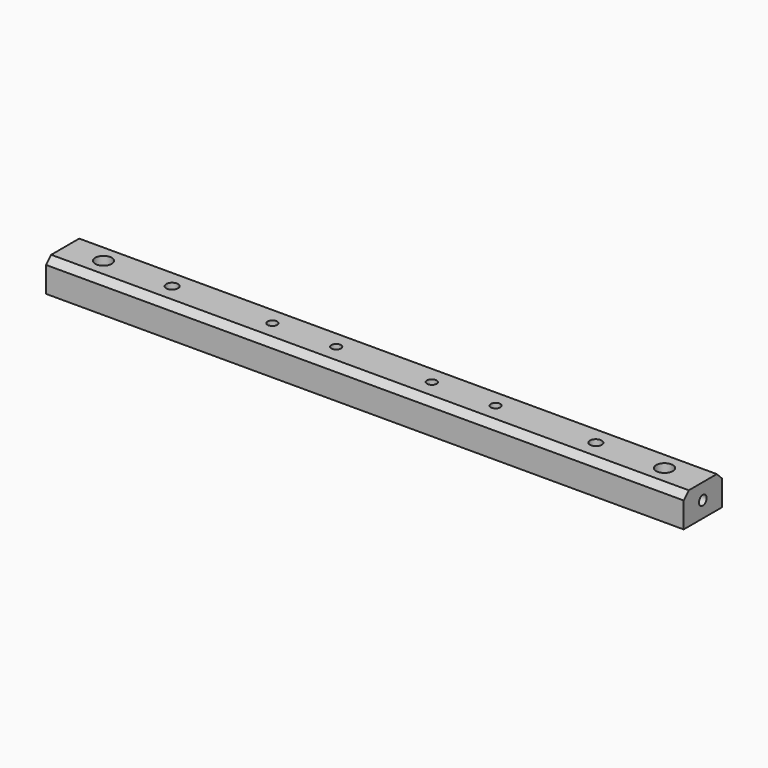
from build123d import *

# Parameters (mm, degrees)
F0_W     = 200
F0_H     = 15
F0_R     = 2.6
F0_R_2   = 1.85
F0_R_3   = 1.5
F1_DEPTH = 10
F2_SIZE  = 2
F3_R     = 1.5
F4_DEPTH = 10
F5_R     = 1.5
F6_DEPTH = 10


with BuildPart() as f1:
    # F0 (on Top) → F1 (new body)
    with BuildSketch(Plane.XY):
        Rectangle(F0_W, F0_H)
        with Locations((-88, 0)):
            Circle(F0_R, mode=Mode.SUBTRACT)
        with Locations((-66.45, 0)):
            Circle(F0_R_2, mode=Mode.SUBTRACT)
        with Locations((-35, 0)):
            Circle(F0_R_3, mode=Mode.SUBTRACT)
        with Locations((-15, 0)):
            Circle(F0_R_3, mode=Mode.SUBTRACT)
        with Locations((15, 0)):
            Circle(F0_R_3, mode=Mode.SUBTRACT)
        with Locations((35, 0)):
            Circle(F0_R_3, mode=Mode.SUBTRACT)
        with Locations((66.45, 0)):
            Circle(F0_R_2, mode=Mode.SUBTRACT)
        with Locations((88, 0)):
            Circle(F0_R, mode=Mode.SUBTRACT)
    extrude(amount=F1_DEPTH)

    # F2
    f2_edges = [f1.edges().sort_by_distance(p)[0] for p in [
        (0, 7.5, 10),
        (0, -7.5, 10),
    ]]
    chamfer(f2_edges, length=F2_SIZE)

    # F3 (on face) → F4 (cut)
    with BuildSketch(Plane.YZ.offset(100)):
        with Locations((0, 5)):
            Circle(F3_R)
    extrude(amount=-F4_DEPTH, mode=Mode.SUBTRACT)

    # F5 (on face) → F6 (cut)
    with BuildSketch(Plane(origin=(-100, 0, 0), x_dir=(0, -1, 0), z_dir=(-1, 0, 0))):
        with Locations((0, 5)):
            Circle(F5_R)
    extrude(amount=-F6_DEPTH, mode=Mode.SUBTRACT)


solid = f1.part
